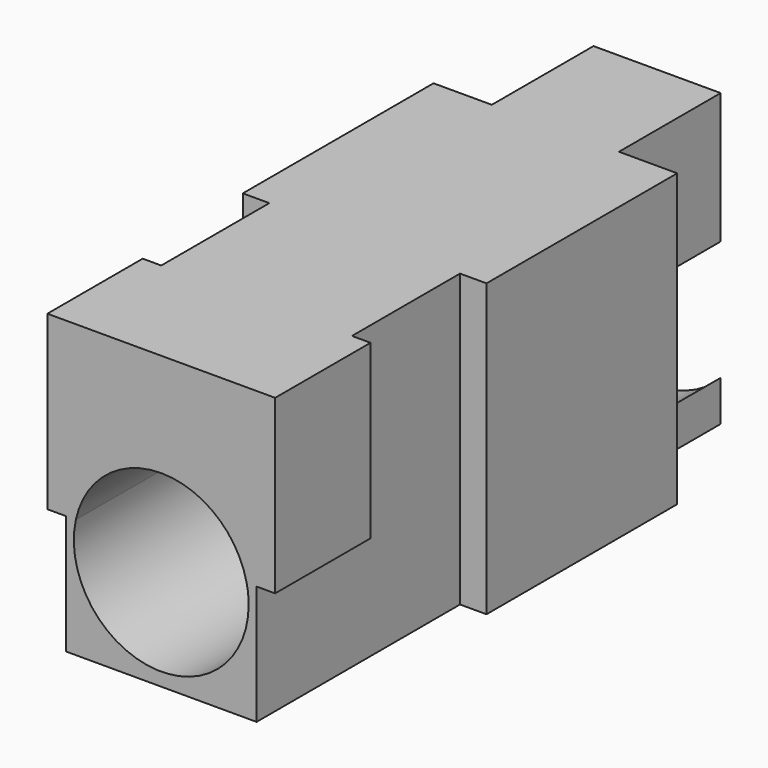
from build123d import *

# Parameters (mm, degrees)
F0_W     = 7.2
F0_H     = 11
F0_R     = 3.3
F1_DEPTH = 23.4
F2_W     = 1.2
F2_H     = 4.8
F3_DEPTH = 11.001
F4_W     = 9.2
F4_H     = 9
F5_DEPTH = 11
F6_W     = 8.6
F6_H     = 4.5
F7_DEPTH = 6.5
F8_R     = 3.3
F9_DEPTH = 23.401


with BuildPart() as f1:
    # F0 (on Front) → F1 (new body)
    with BuildSketch(Plane.XZ):
        Rectangle(F0_W, F0_H)
        with Locations((0, -1.7)):
            Circle(F0_R, mode=Mode.SUBTRACT)
    extrude(amount=F1_DEPTH)

    # F2 (on face) → F3 (cut, through all)
    with BuildSketch(Plane.XY.offset(5.5)):
        with Locations((3, -2.4)):
            Rectangle(F2_W, F2_H)
        with Locations((-3, -2.4)):
            Rectangle(F2_W, F2_H)
    extrude(amount=-F3_DEPTH, mode=Mode.SUBTRACT)

    # F4 (on face) → F5 (join, through all)
    with BuildSketch(Plane.XY.offset(5.5)):
        with Locations((0, -9.3)):
            Rectangle(F4_W, F4_H)
    extrude(amount=-F5_DEPTH)

    # F6 (on face) → F7 (join)
    with BuildSketch(Plane.XY.offset(5.5)):
        with Locations((0, -21.15)):
            Rectangle(F6_W, F6_H)
    extrude(amount=-F7_DEPTH)

    # F8 (on face) → F9 (cut, through all)
    with BuildSketch(Plane.XZ.offset(23.4)):
        with Locations((0, -1.7)):
            Circle(F8_R)
    extrude(amount=-F9_DEPTH, mode=Mode.SUBTRACT)


solid = f1.part
